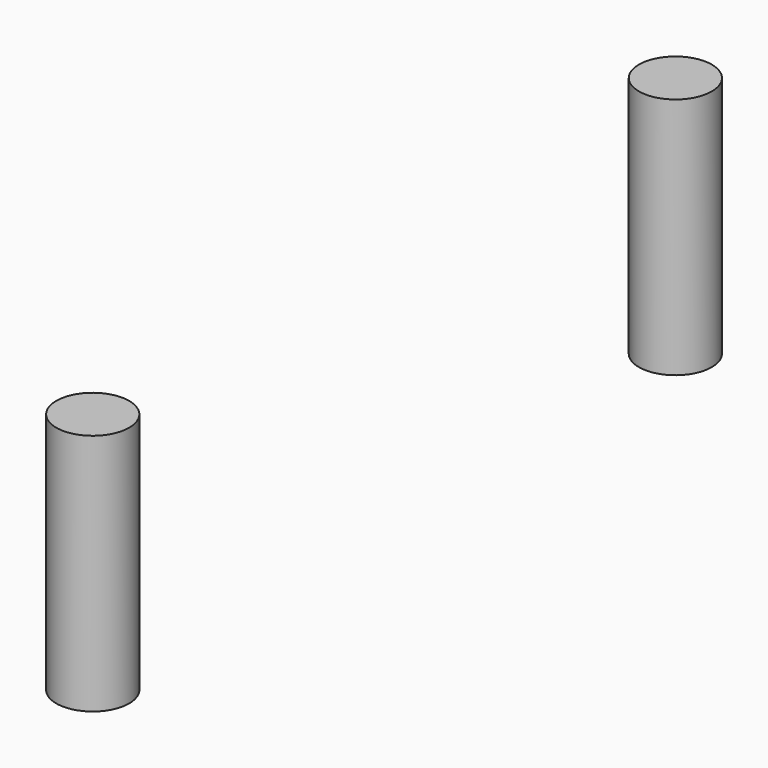
from build123d import *

# Parameters (mm, degrees)
CYLINDER_R        = 1.5
CYLINDER_DEPTH    = 10
CYLINDER001_R     = 1.5
CYLINDER001_DEPTH = 10


with BuildPart() as cylinder:
    # Cylinder → Cylinder (new body)
    with BuildSketch(Plane(origin=(-208, 320, 105), x_dir=(1, 0, 0), z_dir=(0, 0, 1))):
        Circle(CYLINDER_R)
    extrude(amount=CYLINDER_DEPTH)


with BuildPart() as fusion:
    # Cylinder001 → Cylinder001 (new body)
    with BuildSketch(Plane(origin=(-208, 350, 105), x_dir=(1, 0, 0), z_dir=(0, 0, 1))):
        Circle(CYLINDER001_R)
    extrude(amount=CYLINDER001_DEPTH)

    # Fusion: union Cylinder
    add(cylinder.part)


solid = fusion.part
